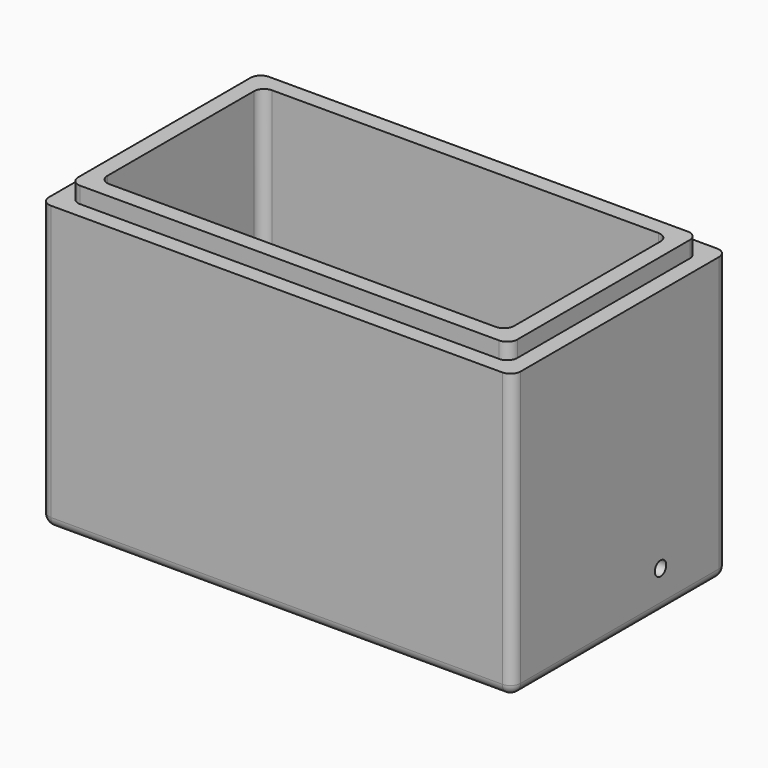
from build123d import *

# Parameters (mm, degrees)
SKETCH_W        = 232
SKETCH_H        = 132
PAD_DEPTH       = 140
SKETCH001_W     = 200
SKETCH001_H     = 100
POCKET_DEPTH    = 130
SKETCH002_W     = 216
SKETCH002_H     = 116
SKETCH002_W_2   = 200
SKETCH002_H_2   = 100
PAD001_DEPTH    = 8
FILLET_R        = 5
SKETCH008_R     = 3.5
POCKET003_DEPTH = 16


with BuildPart() as part:
    # Sketch → Pad (new body)
    with BuildSketch(Plane.XY):
        Rectangle(SKETCH_W, SKETCH_H)
    extrude(amount=PAD_DEPTH)

    # Sketch001 (on Face6 of Pad) → Pocket (cut)
    with BuildSketch(Plane.XY.offset(140)):
        Rectangle(SKETCH001_W, SKETCH001_H)
    extrude(amount=-POCKET_DEPTH, mode=Mode.SUBTRACT)

    # Sketch002 (on Face5 of Pocket) → Pad001 (join)
    with BuildSketch(Plane.XY.offset(140)):
        Rectangle(SKETCH002_W, SKETCH002_H)
        Rectangle(SKETCH002_W_2, SKETCH002_H_2, mode=Mode.SUBTRACT)
    extrude(amount=PAD001_DEPTH)

    # Fillet
    fillet_edges = [part.edges().sort_by_distance(p)[0] for p in [
        (-116, -66, 70),
        (116, -66, 70),
        (116, 66, 70),
        (0, -66, 0),
        (116, 0, 0),
        (-100, 50, 79),
        (-100, -50, 79),
        (-116, 66, 70),
        (100, -50, 79),
        (100, 50, 79),
        (100, 0, 10),
        (0, -50, 10),
        (0, 50, 10),
        (-100, 0, 10),
        (108, -58, 144),
        (108, 58, 144),
        (-108, -58, 144),
        (-108, 58, 144),
        (0, 66, 0),
        (-116, 0, 0),
    ]]
    fillet(fillet_edges, radius=FILLET_R)

    # Sketch008 (on Face10 of Fillet) → Pocket003 (cut)
    with BuildSketch(Plane.YZ.offset(116)):
        with Locations((25, 19.8)):
            Circle(SKETCH008_R)
    extrude(amount=-POCKET003_DEPTH, mode=Mode.SUBTRACT)


solid = part.part
